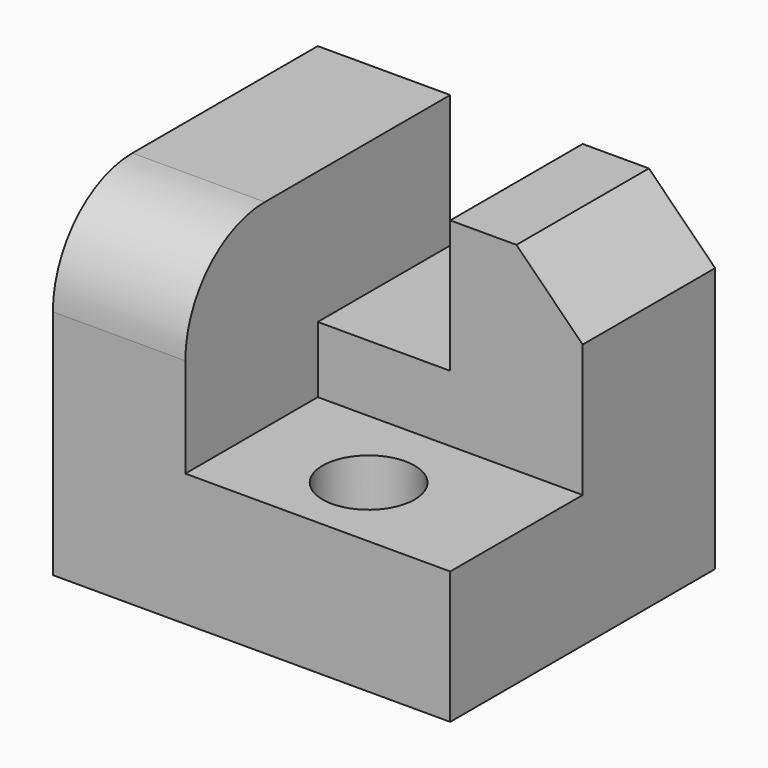
from build123d import *

# Parameters (mm, degrees)
F0_W      = 152.4
F0_H      = 127
F1_DEPTH  = 127
F2_W      = 101.6
F2_H      = 76.2
F3_DEPTH  = 88.9
F4_R      = 38.1
F5_DEPTH  = 25.4
F6_W      = 50.8
F6_H      = 50.8
F7_DEPTH  = 63.501
F8_SIZE   = 25.4
F9_R      = 17.6472220147
F10_DEPTH = 50.801


with BuildPart() as f1:
    # F0 (on Front) → F1 (new body)
    with BuildSketch(Plane.XZ):
        with Locations((9.334500879, 15.7128399368)):
            Rectangle(F0_W, F0_H)
    extrude(amount=F1_DEPTH)

    # F2 (on face) → F3 (cut)
    with BuildSketch(Plane.XZ.offset(127)):
        with Locations((34.734500879, 41.1128399368)):
            Rectangle(F2_W, F2_H)
    extrude(amount=-F3_DEPTH, mode=Mode.SUBTRACT)

    # F4
    f4_edges = [f1.edges().sort_by_distance(p)[0] for p in [
        (-41.465499, -127, 79.21284),
    ]]
    fillet(f4_edges, radius=F4_R)

    # F5 (add): a face of the model
    f5_faces = [f1.faces().sort_by_distance(p)[0] for p in [
        (34.734500879, -38.1, 41.1128399368),
    ]]
    extrude(f5_faces, amount=F5_DEPTH)

    # F6 (on face) → F7 (cut, through all)
    with BuildSketch(Plane.XZ.offset(63.5)):
        with Locations((9.334500879, 53.8128399368)):
            Rectangle(F6_W, F6_H)
    extrude(amount=-F7_DEPTH, mode=Mode.SUBTRACT)

    # F8
    f8_edges = [f1.edges().sort_by_distance(p)[0] for p in [
        (85.534501, -31.75, 79.21284),
    ]]
    chamfer(f8_edges, length=F8_SIZE)

    # F9 (on face) → F10 (cut, through all)
    with BuildSketch(Plane.XY.offset(3.0128399368)):
        with Locations((30.4336287081, -97.2528904676)):
            Circle(F9_R)
    extrude(amount=-F10_DEPTH, mode=Mode.SUBTRACT)


solid = f1.part
